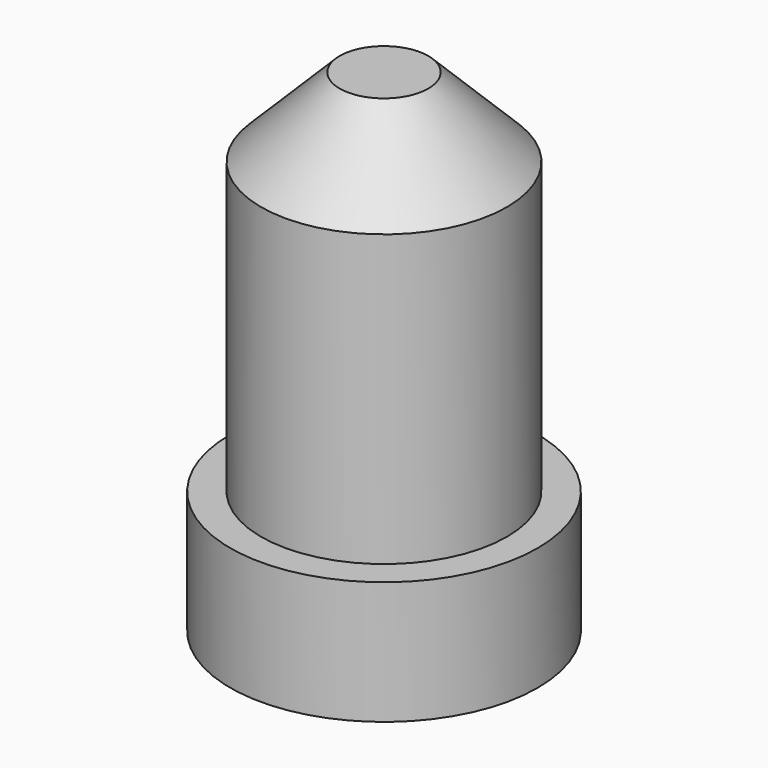
from build123d import *

# Parameters (mm, degrees)
SKETCH_R     = 3.96875
PAD_DEPTH    = 3.175
SKETCH001_R  = 3.175
PAD001_DEPTH = 6.35
SKETCH002_R  = 3.175
PAD002_DEPTH = 3.175
CHAMFER_SIZE = 2.032


with BuildPart() as part:
    # Sketch → Pad (new body)
    with BuildSketch(Plane.XY):
        Circle(SKETCH_R)
    extrude(amount=PAD_DEPTH)

    # Sketch001 → Pad001 (new body)
    with BuildSketch(Plane.XY.offset(3.175)):
        Circle(SKETCH001_R)
    extrude(amount=PAD001_DEPTH)

    # Sketch002 → Pad002 (new body)
    with BuildSketch(Plane.XY.offset(9.525)):
        Circle(SKETCH002_R)
    extrude(amount=PAD002_DEPTH)

    # Chamfer
    chamfer_edges = [part.edges().sort_by_distance(p)[0] for p in [
        (-3.175, 0, 9.525),
        (-3.175, 0, 12.7),
    ]]
    chamfer(chamfer_edges, length=CHAMFER_SIZE)


solid = part.part
